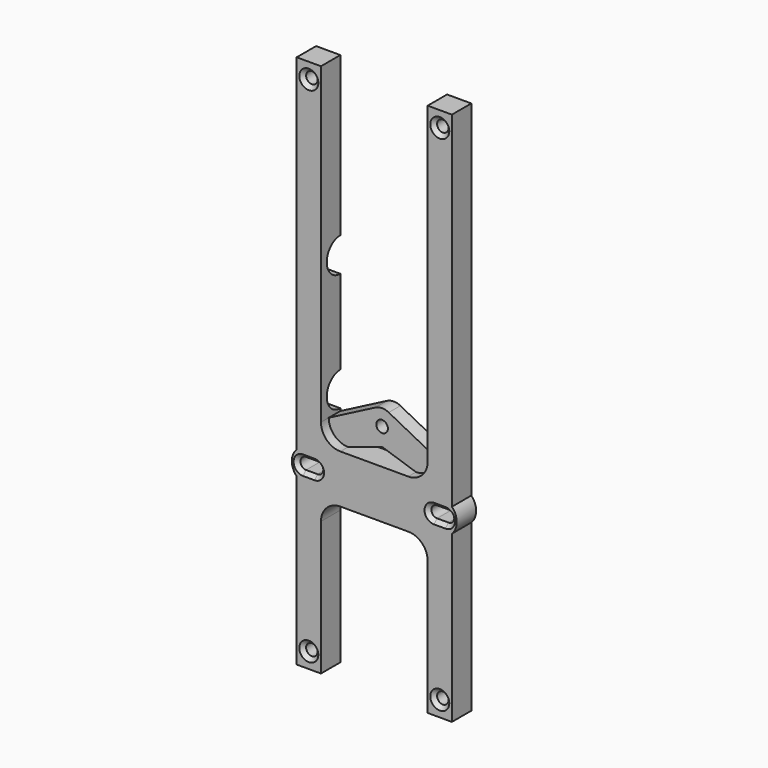
from build123d import *

# Parameters (mm, degrees)
F0_R     = 1.4986
F1_DEPTH = 6.35
F2_SIZE  = 0.9906
F0_R_2   = 1.524
F3_DEPTH = 3.81
F5_DEPTH = 5.08
F7_DEPTH = 5.08
F8_R     = 3.81


with BuildPart() as f1:
    # F0 (on Front) → F1 (new body)
    with BuildSketch(Plane.XZ):
        with BuildLine():
            Line((-36.0867052997, 143.2092670372), (-42.4367052997, 143.2092670372))
            Line((-42.4367052997, 143.2092670372), (-42.4367052997, 52.8312826116))
            ThreePointArc((-42.4367052997, 52.8312826116), (-43.703811406, 49.7245670372), (-42.4367052997, 46.6178514628))
            Line((-42.4367052997, 46.6178514628), (-42.4367052997, 3.2298670372))
            Line((-42.4367052997, 3.2298670372), (-36.0867052997, 3.2298670372))
            Line((-36.0867052997, 3.2298670372), (-36.0867052997, 38.2945670372))
            ThreePointArc((-36.0867052997, 38.2945670372), (-34.5988077481, 41.8866694856), (-31.0067052997, 43.3745670372))
            Line((-31.0067052997, 43.3745670372), (-13.2267052997, 43.3745670372))
            ThreePointArc((-13.2267052997, 43.3745670372), (-9.6346028513, 41.8866694856), (-8.1467052997, 38.2945670372))
            Line((-8.1467052997, 38.2945670372), (-8.1467052997, 3.2298670372))
            Line((-8.1467052997, 3.2298670372), (-1.7967052997, 3.2298670372))
            Line((-1.7967052997, 3.2298670372), (-1.7967052997, 46.6178514628))
            ThreePointArc((-1.7967052997, 46.6178514628), (-0.5295991933, 49.7245670372), (-1.7967052997, 52.8312826116))
            Line((-1.7967052997, 52.8312826116), (-1.7967052997, 143.2092670372))
            Line((-1.7967052997, 143.2092670372), (-8.1467052997, 143.2092670372))
            Line((-8.1467052997, 143.2092670372), (-8.1467052997, 61.1545671391))
            ThreePointArc((-8.1467052997, 61.1545671391), (-9.6346028513, 57.5624646907), (-13.2267052997, 56.0745671391))
            Line((-13.2267052997, 56.0745671391), (-31.0067052997, 56.0745671391))
            ThreePointArc((-31.0067052997, 56.0745671391), (-34.5988077481, 57.5624646907), (-36.0867052997, 61.1545671391))
            Line((-36.0867052997, 61.1545671391), (-36.0867052997, 143.2092670372))
        make_face()
        with Locations((-39.2617052997, 7.3065670372)):
            Circle(F0_R, mode=Mode.SUBTRACT)
        with BuildLine():
            ThreePointArc((-40.7603052997, 48.2259670372), (-42.2589052997, 49.7245670372), (-40.7603052997, 51.2231670372))
            Line((-40.7603052997, 51.2231670372), (-37.7631052997, 51.2231670372))
            ThreePointArc((-37.7631052997, 51.2231670372), (-36.2645052997, 49.7245670372), (-37.7631052997, 48.2259670372))
            Line((-37.7631052997, 48.2259670372), (-40.7603052997, 48.2259670372))
        make_face(mode=Mode.SUBTRACT)
        with Locations((-4.9717052997, 7.3065670372)):
            Circle(F0_R, mode=Mode.SUBTRACT)
        with BuildLine():
            ThreePointArc((-6.4703052997, 48.2259670372), (-7.9689052997, 49.7245670372), (-6.4703052997, 51.2231670372))
            Line((-6.4703052997, 51.2231670372), (-3.4731052997, 51.2231670372))
            ThreePointArc((-3.4731052997, 51.2231670372), (-1.9745052997, 49.7245670372), (-3.4731052997, 48.2259670372))
            Line((-3.4731052997, 48.2259670372), (-6.4703052997, 48.2259670372))
        make_face(mode=Mode.SUBTRACT)
        with Locations((-39.2617052997, 139.1325670372)):
            Circle(F0_R, mode=Mode.SUBTRACT)
        with Locations((-4.9717052997, 139.1325670372)):
            Circle(F0_R, mode=Mode.SUBTRACT)
    extrude(amount=F1_DEPTH)

    # F2
    f2_edges = [f1.edges().sort_by_distance(p)[0] for p in [
        (-40.760305, -6.35, 7.306567),
        (-36.264505, -6.35, 49.724567),
        (-40.760305, -6.35, 139.132567),
        (-4.971705, -6.35, 48.225967),
        (-6.470305, -6.35, 7.306567),
        (-6.470305, -6.35, 139.132567),
    ]]
    chamfer(f2_edges, length=F2_SIZE)

    # F0 (on Front) → F3 (join)
    with BuildSketch(Plane.XZ):
        with BuildLine():
            Line((-22.1167052997, 68.3935671391), (-36.0867052997, 61.1545671391))
            ThreePointArc((-36.0867052997, 61.1545671391), (-34.5988077481, 57.5624646907), (-31.0067052997, 56.0745671391))
            Line((-31.0067052997, 56.0745671391), (-22.1167052997, 58.9955671391))
            Line((-22.1167052997, 58.9955671391), (-13.2267052997, 56.0745671391))
            ThreePointArc((-13.2267052997, 56.0745671391), (-9.6346028513, 57.5624646907), (-8.1467052997, 61.1545671391))
            Line((-8.1467052997, 61.1545671391), (-22.1167052997, 68.3935671391))
        make_face()
        with Locations((-22.1167052997, 63.6945671391)):
            Circle(F0_R_2, mode=Mode.SUBTRACT)
    extrude(amount=F3_DEPTH)

    # F4 (on face) → F5 (cut)
    with BuildSketch(Plane(origin=(-8.1467052997, 0, 0), x_dir=(0, -1, 0), z_dir=(-1, 0, 0))):
        with BuildLine():
            ThreePointArc((4.445, 97.2352670372), (3.1430896424, 100.3783566796), (0, 101.6802670372))
            Line((0, 101.6802670372), (0, 97.2352670372))
            Line((0, 97.2352670372), (0, 92.7902670372))
            ThreePointArc((0, 92.7902670372), (3.1430896424, 94.0921773948), (4.445, 97.2352670372))
        make_face()
        with BuildLine():
            ThreePointArc((4.445, 66.2472670372), (3.1430896424, 69.3903566796), (0, 70.6922670372))
            Line((0, 70.6922670372), (0, 66.2472670372))
            Line((0, 66.2472670372), (0, 61.8022670372))
            ThreePointArc((0, 61.8022670372), (3.1430896424, 63.1041773948), (4.445, 66.2472670372))
        make_face()
    extrude(amount=-F5_DEPTH, mode=Mode.SUBTRACT)

    # F6 (on face) → F7 (cut)
    with BuildSketch(Plane.YZ.offset(-36.0867052997)):
        with BuildLine():
            Line((0, 97.2352670372), (0, 101.6802670372))
            ThreePointArc((0, 101.6802670372), (-4.445, 97.2352670372), (0, 92.7902670372))
            Line((0, 92.7902670372), (0, 97.2352670372))
        make_face()
        with BuildLine():
            Line((0, 66.2472670372), (0, 70.6922670372))
            ThreePointArc((0, 70.6922670372), (-4.445, 66.2472670372), (0, 61.8022670372))
            Line((0, 61.8022670372), (0, 66.2472670372))
        make_face()
    extrude(amount=-F7_DEPTH, mode=Mode.SUBTRACT)

    # F8
    f8_edges = [f1.edges().sort_by_distance(p)[0] for p in [
        (-22.116705, -1.905, 68.393567),
    ]]
    fillet(f8_edges, radius=F8_R)


solid = f1.part
